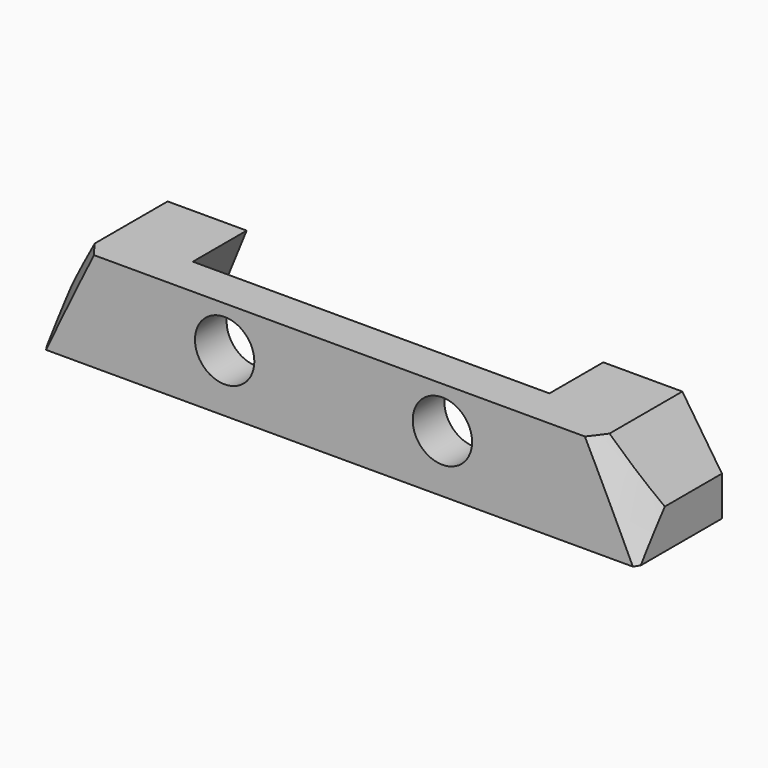
from build123d import *

# Parameters (mm, degrees)
BOX341_W           = 22
BOX341_H           = 4
BOX341_DEPTH       = 6
CHAMFER073_1_SIZE2 = 2.4
CHAMFER073_1_SIZE  = 5.9
CHAMFER073_2_SIZE2 = 2.4
CHAMFER073_2_SIZE  = 5.9
CYLINDER398_R      = 1.5
CYLINDER398_DEPTH  = 5
CYLINDER395_R      = 1.5
CYLINDER395_DEPTH  = 5
BOX342_W           = 30
BOX342_H           = 5.4
BOX342_DEPTH       = 5
CHAMFER074_1_SIZE2 = 2
CHAMFER074_1_SIZE  = 3
CHAMFER074_2_SIZE2 = 2
CHAMFER074_2_SIZE  = 3


with BuildPart() as cone008:
    # Cone007 → Cone007 (revolve)
    with BuildSketch(Plane(origin=(0, 0, 85), x_dir=(1, 0, 0), z_dir=(0, -1, 0))):
        Polygon((0, 0), (21, 0), (5, 41), (0, 41), align=None)
    revolve(axis=Axis((0, 0, 85), (0, 0, 1)))


with BuildPart() as chamfer096:
    # Box341 → Box341 (new body)
    with BuildSketch(Plane(origin=(-11, -8, 93), x_dir=(1, 0, 0), z_dir=(0, 0, 1))):
        with Locations((11, 2)):
            Rectangle(BOX341_W, BOX341_H)
    extrude(amount=BOX341_DEPTH)

    # Chamfer073 1
    chamfer073_1_edges = [chamfer096.edges().sort_by_distance(p)[0] for p in [
        (11, -6, 99),
    ]]
    chamfer073_1_side = chamfer096.faces().sort_by_distance((11, -6, 96))[0]
    chamfer(chamfer073_1_edges, length=CHAMFER073_1_SIZE, length2=CHAMFER073_1_SIZE2, reference=chamfer073_1_side)

    # Chamfer073 2
    chamfer073_2_edges = [chamfer096.edges().sort_by_distance(p)[0] for p in [
        (-11, -6, 99),
    ]]
    chamfer073_2_side = chamfer096.faces().sort_by_distance((-11, -6, 96))[0]
    chamfer(chamfer073_2_edges, length=CHAMFER073_2_SIZE, length2=CHAMFER073_2_SIZE2, reference=chamfer073_2_side)


with BuildPart() as cylinder398:
    # Cylinder398 → Cylinder398 (new body)
    with BuildSketch(Plane(origin=(5.2, -6, 95.9), x_dir=(1, 0, 0), z_dir=(0, -1, 0))):
        Circle(CYLINDER398_R)
    extrude(amount=CYLINDER398_DEPTH)


with BuildPart() as cut_out001:
    # Cylinder395 → Cylinder395 (new body)
    with BuildSketch(Plane(origin=(-5.8, -6, 95.9), x_dir=(1, 0, 0), z_dir=(0, -1, 0))):
        Circle(CYLINDER395_R)
    extrude(amount=CYLINDER395_DEPTH)

    # Compound201: union Cylinder398
    add(cylinder398.part)

    # Fusion087: union Chamfer096
    add(chamfer096.part)


with BuildPart() as obj1:
    # Box342 → Box342 (new body)
    with BuildSketch(Plane(origin=(-15, -10, 93), x_dir=(1, 0, 0), z_dir=(0, 0, 1))):
        with Locations((15, 2.7)):
            Rectangle(BOX342_W, BOX342_H)
    extrude(amount=BOX342_DEPTH)

    # Chamfer074 1
    chamfer074_1_edges = [obj1.edges().sort_by_distance(p)[0] for p in [
        (15, -7.3, 98),
    ]]
    chamfer074_1_side = obj1.faces().sort_by_distance((15, -7.3, 95.5))[0]
    chamfer(chamfer074_1_edges, length=CHAMFER074_1_SIZE, length2=CHAMFER074_1_SIZE2, reference=chamfer074_1_side)

    # Chamfer074 2
    chamfer074_2_edges = [obj1.edges().sort_by_distance(p)[0] for p in [
        (-15, -7.3, 98),
    ]]
    chamfer074_2_side = obj1.faces().sort_by_distance((-15, -7.3, 95.5))[0]
    chamfer(chamfer074_2_edges, length=CHAMFER074_2_SIZE, length2=CHAMFER074_2_SIZE2, reference=chamfer074_2_side)

    # Cut226: cut cut-out001
    add(cut_out001.part, mode=Mode.SUBTRACT)

    # Common007: intersect Cone008
    add(cone008.part, mode=Mode.INTERSECT)


solid = obj1.part
